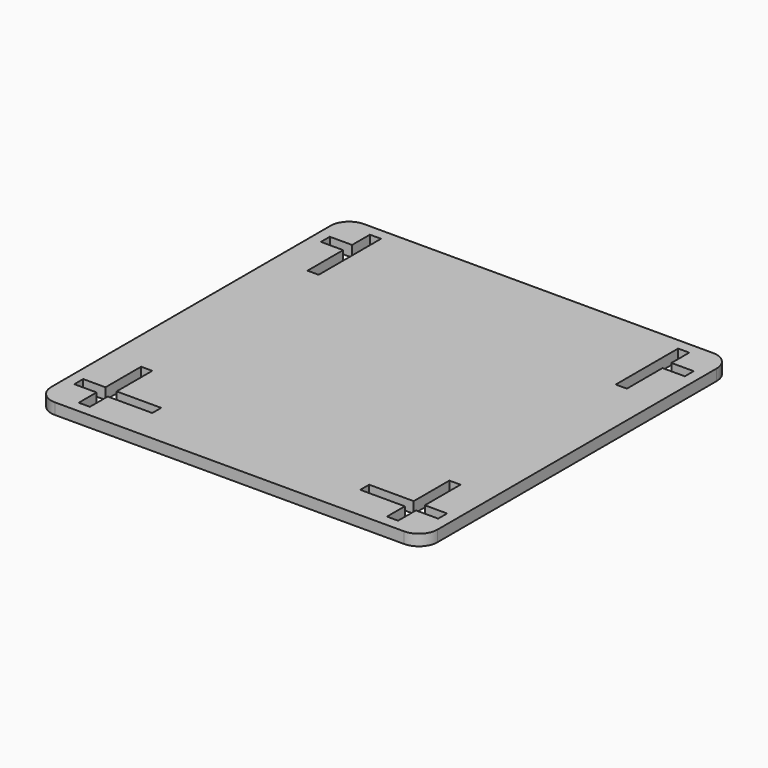
from build123d import *

# Parameters (mm, degrees)
F1_W     = 104
F1_H     = 104
F2_DEPTH = 3
F3_R     = 5


with BuildPart() as f2:
    # F1 (on Top) → F2 (new body)
    with BuildSketch(Plane.XY):
        Rectangle(F1_W, F1_H)
        Polygon((28, -43), (28, -40), (-28, -40), (-28, -43), (-40, -43), (-40, -49), (-43, -49), (-43, -43), (-49, -43), (-49, -40), (-43, -40), (-43, -28), (-40, -28), (-40, 28), (-43, 28), (-43, 40), (-49, 40), (-49, 43), (-43, 43), (-43, 49), (-40, 49), (-40, 43), (-40, 40), (40, 40), (40, 43), (40, 49), (43, 49), (43, 43), (49, 43), (49, 40), (43, 40), (43, 28), (40, 28), (40, -28), (43, -28), (43, -40), (49, -40), (49, -43), (43, -43), (43, -49), (40, -49), (40, -43), align=None, mode=Mode.SUBTRACT)
        Polygon((28, -40), (40, -40), (40, -28), (40, 28), (40, 40), (-40, 40), (-40, 28), (-40, -28), (-40, -40), (-28, -40), align=None)
    extrude(amount=F2_DEPTH)

    # F3
    f3_edges = [f2.edges().sort_by_distance(p)[0] for p in [
        (-52, -52, 1.5),
        (-52, 52, 1.5),
        (52, -52, 1.5),
        (52, 52, 1.5),
    ]]
    fillet(f3_edges, radius=F3_R)


solid = f2.part
